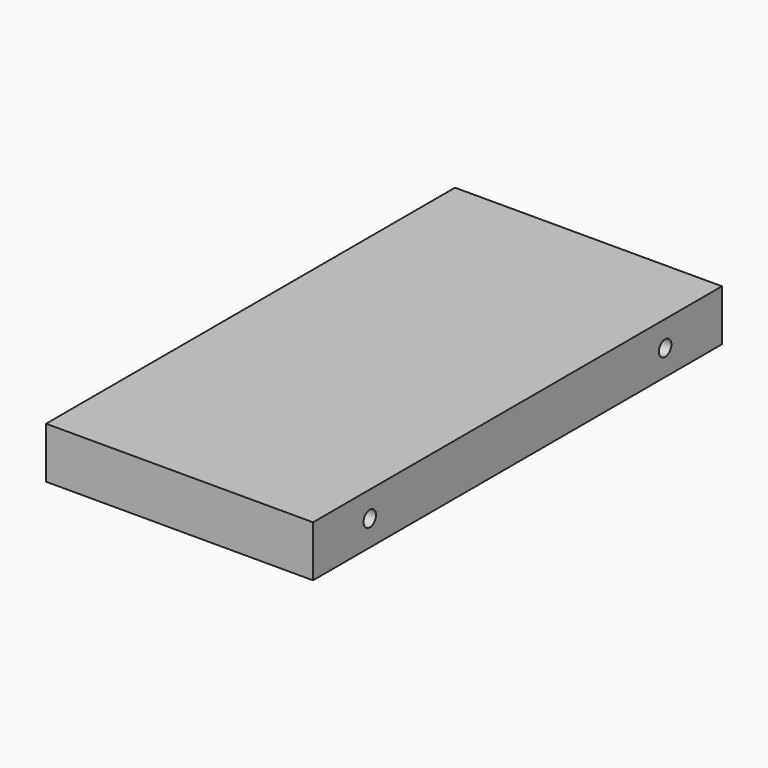
from build123d import *

# Parameters (mm, degrees)
F0_W     = 94
F0_H     = 18
F1_DEPTH = 90
F3_D     = 5.5


with BuildPart() as f1:
    # F0 (on Front) → F1 (new body, symmetric)
    with BuildSketch(Plane.XZ):
        Rectangle(F0_W, F0_H)
    extrude(amount=F1_DEPTH, both=True)

    # F3 (through all)
    with Locations(Plane.YZ.offset(47)):
        with Locations((-65, 0), (65, 0)):
            Hole(F3_D / 2)


solid = f1.part
